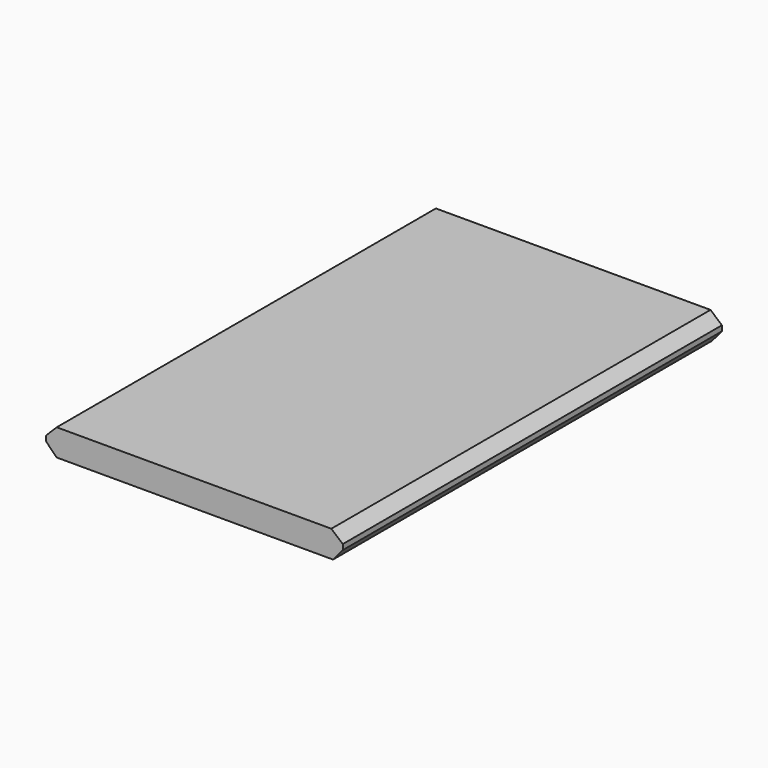
from build123d import *

# Parameters (mm, degrees)
F1_DEPTH      = 311.5
F1_DEPTH_BACK = 311.5


with BuildPart() as f1:
    # F0 (on Front) → F1 (new body, two sides)
    with BuildSketch(Plane.XZ) as f1_sk:
        Polygon((161.838785, 16.911194), (-199.136299, 16.911194), (-213.136299, 2.911194), (-213.136299, -4.088806), (-199.136299, -18.088806), (164.065073, -18.088806), (176.863701, -2.982678), (176.863701, 4.017322), align=None)
    extrude(amount=F1_DEPTH)
    extrude(f1_sk.sketch, amount=-F1_DEPTH_BACK)


solid = f1.part
